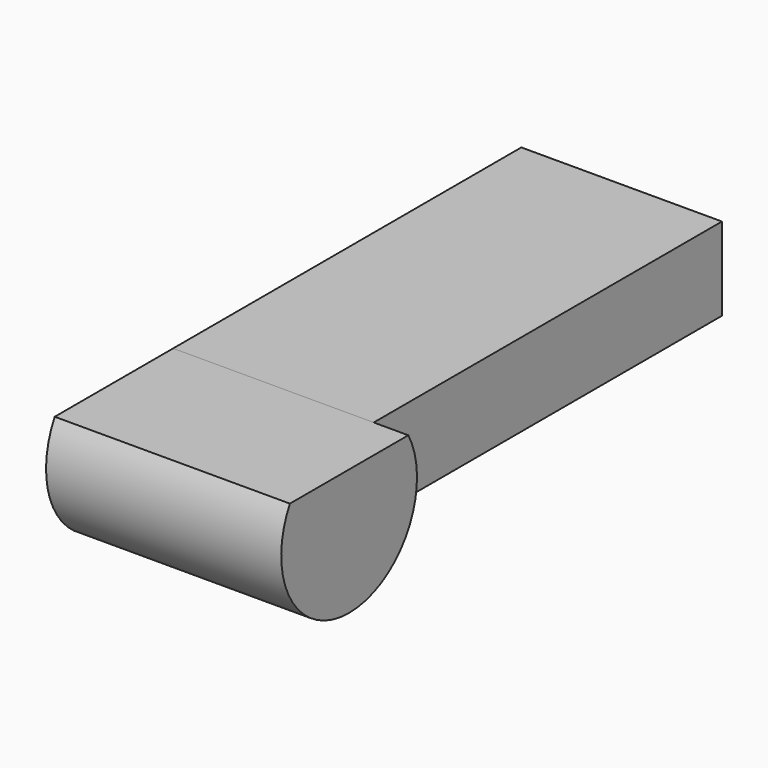
from build123d import *

# Parameters (mm, degrees)
F0_W     = 4.35
F0_H     = 1.8
F1_DEPTH = 11.7
F2_R     = 1.84
F3_DEPTH = 5.1
F5_DEPTH = 25
F6_W     = 5.1
F6_H     = 0.197361
F7_DEPTH = 25


with BuildPart() as f1:
    # F0 (on Front) → F1 (new body)
    with BuildSketch(Plane.XZ):
        with Locations((-12.080966, 25.862558)):
            Rectangle(F0_W, F0_H)
    extrude(amount=F1_DEPTH)

    # F2 (on face) → F3 (join)
    with BuildSketch(Plane(origin=(-14.255966, 0, 0), x_dir=(0, -1, 0), z_dir=(-1, 0, 0))):
        with Locations((11.043573, 25.862558)):
            Circle(F2_R)
    extrude(amount=-F3_DEPTH)

    # F4 (on face) → F5 (cut)
    with BuildSketch(Plane(origin=(-14.255966, 0, 0), x_dir=(0, -1, 0), z_dir=(-1, 0, 0))):
        Polygon((10.555248, 28.524822), (9.438705, 26.762558), (31.722508, 26.762558), align=None)
    extrude(amount=-F5_DEPTH, mode=Mode.SUBTRACT)

    # F6 (on face) → F7 (cut)
    with BuildSketch(Plane(origin=(0, 5.36427, 3.39872), x_dir=(1, 0, 0), z_dir=(0, -0.844723, -0.535204))):
        with Locations((-11.705966, 27.757259)):
            Rectangle(F6_W, F6_H)
    extrude(amount=-F7_DEPTH, mode=Mode.SUBTRACT)


solid = f1.part
